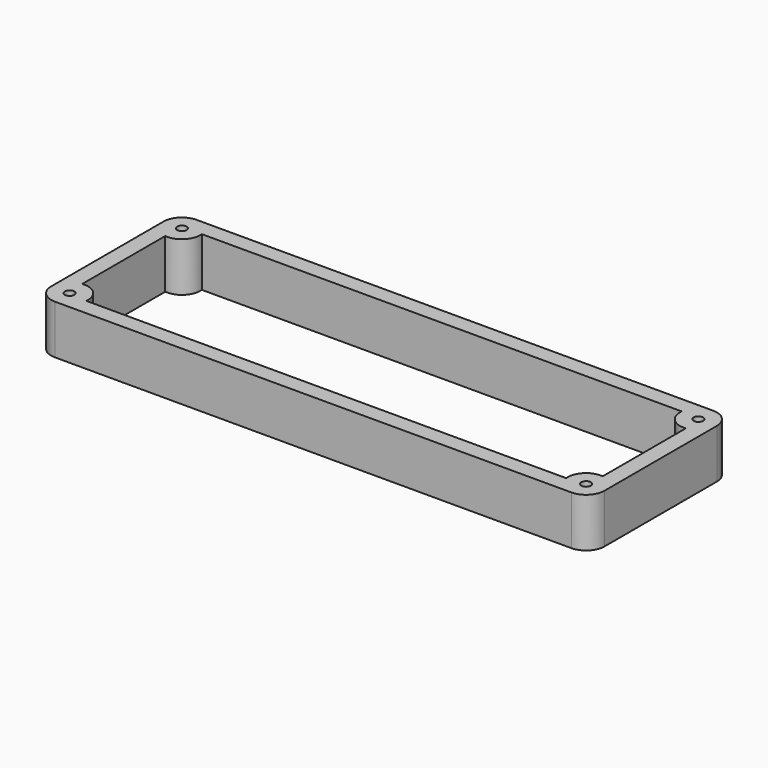
from build123d import *

# Parameters (mm, degrees)
F0_R     = 1.75
F1_DEPTH = 18


with BuildPart() as f1:
    # F0 (on Top) → F1 (new body)
    with BuildSketch(Plane.XY):
        with BuildLine():
            Line((-94.75, -32.5), (94.75, -32.5))
            ThreePointArc((94.75, -32.5), (99.522971, -30.522971), (101.5, -25.75))
            Line((101.5, -25.75), (101.5, 25.75))
            ThreePointArc((101.5, 25.75), (99.522971, 30.522971), (94.75, 32.5))
            Line((94.75, 32.5), (-94.75, 32.5))
            ThreePointArc((-94.75, 32.5), (-99.522971, 30.522971), (-101.5, 25.75))
            Line((-101.5, 25.75), (-101.5, -25.75))
            ThreePointArc((-101.5, -25.75), (-99.522971, -30.522971), (-94.75, -32.5))
        make_face()
        with Locations((-94.75, -25.75)):
            Circle(F0_R, mode=Mode.SUBTRACT)
        with Locations((94.75, -25.75)):
            Circle(F0_R, mode=Mode.SUBTRACT)
        with Locations((-94.75, 25.75)):
            Circle(F0_R, mode=Mode.SUBTRACT)
        with BuildLine():
            Line((6.708204, 26.5), (88.041796, 26.5))
            ThreePointArc((88.041796, 26.5), (89.977029, 20.977029), (95.5, 19.041796))
            Line((95.5, 19.041796), (95.5, -19.041796))
            ThreePointArc((95.5, -19.041796), (89.977029, -20.977029), (88.041796, -26.5))
            Line((88.041796, -26.5), (6.708204, -26.5))
            Line((6.708204, -26.5), (-88.041796, -26.5))
            ThreePointArc((-88.041796, -26.5), (-89.977029, -20.977029), (-95.5, -19.041796))
            Line((-95.5, -19.041796), (-95.5, 19.041796))
            ThreePointArc((-95.5, 19.041796), (-89.977029, 20.977029), (-88.041796, 26.5))
            Line((-88.041796, 26.5), (6.708204, 26.5))
        make_face(mode=Mode.SUBTRACT)
        with Locations((94.75, 25.75)):
            Circle(F0_R, mode=Mode.SUBTRACT)
    extrude(amount=F1_DEPTH)


solid = f1.part
